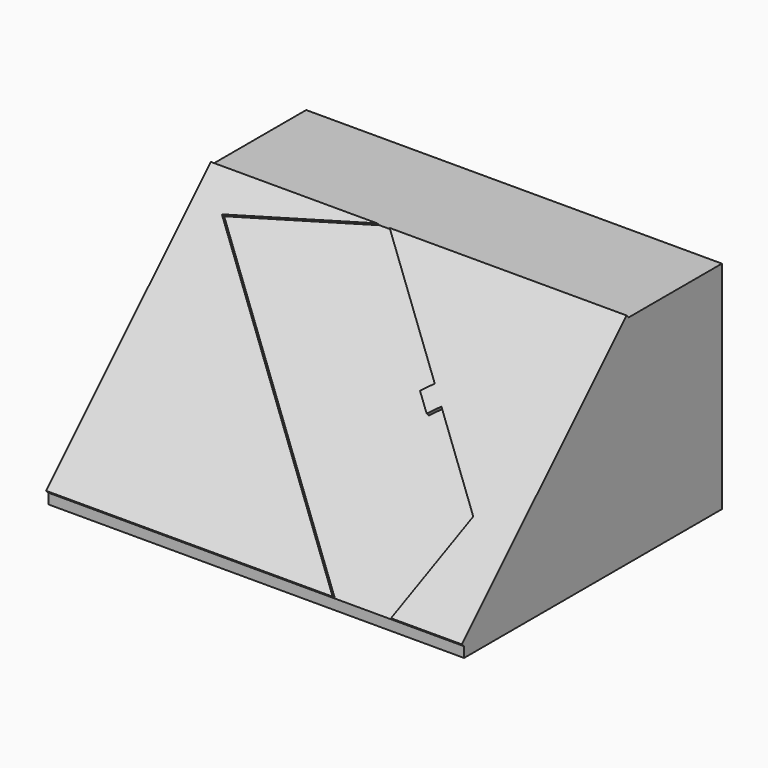
from build123d import *

# Parameters (mm, degrees)
F1_DEPTH = 31.75
F3_DEPTH = 0.6096


with BuildPart() as f1:
    # F0 (on Right) → F1 (new body, symmetric)
    with BuildSketch(Plane.YZ):
        Polygon((1.5748, 1.5748), (1.5748, 0), (50.8, 0), (50.8, 33.02), (33.02, 33.02), align=None)
    extrude(amount=F1_DEPTH, both=True)

    # F2 (on face) → F3 (join)
    with BuildSketch(Plane(origin=(0, 0, 0), x_dir=(1, 0, 0), z_dir=(0, -0.707107, 0.707107))):
        Polygon((20.933067, 2.227104), (31.75, 2.227104), (31.75, 46.697332), (-4.429533, 46.697332), (11.425763, 30.842037), (13.760629, 28.50717), (24.970984, 17.296815), align=None)
        Polygon((13.760629, 28.50717), (11.425763, 30.842037), (9.988922, 29.405196), (12.323788, 27.070329), align=None)
        Polygon((-31.75, 2.227104), (12.022296, 2.227104), (-26.928911, 41.178311), (-6.331646, 46.697332), (-31.75, 46.697332), align=None)
    extrude(amount=F3_DEPTH)


solid = f1.part
